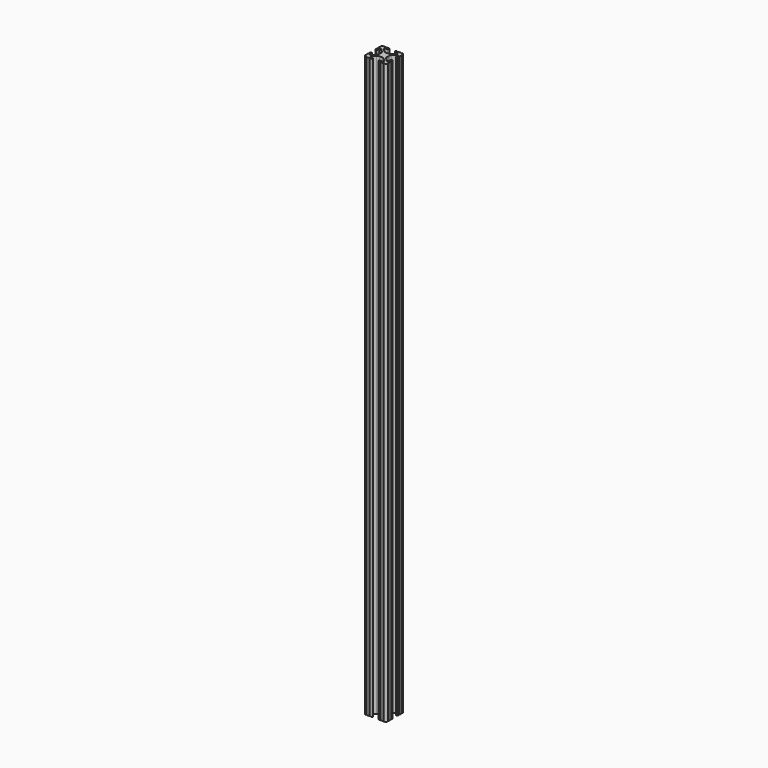
from build123d import *

# Parameters (mm, degrees)
F1_DEPTH = 656


with BuildPart() as f1:
    # F0 (on Top) → F1 (new body)
    with BuildSketch(Plane.XY):
        with BuildLine():
            ThreePointArc((-5.660299, 21.653931), (-5.026604, 22.60291), (-3.907231, 22.381251))
            Line((-3.907231, 22.381251), (-0.611105, 19.092658))
            ThreePointArc((-0.611105, 19.092658), (0.079023, 18.061725), (0.321401, 16.845027))
            Line((0.321401, 16.845027), (0.321401, 13.658656))
            ThreePointArc((0.321401, 13.658656), (0.079023, 12.441959), (-0.611105, 11.411025))
            Line((-0.611105, 11.411025), (-3.907231, 8.122433))
            ThreePointArc((-3.907231, 8.122433), (-5.026604, 7.900774), (-5.660299, 8.849753))
            Line((-5.660299, 8.849753), (-5.660299, 10.964372))
            ThreePointArc((-5.660299, 10.964372), (-5.967548, 11.706136), (-6.709312, 12.013385))
            Line((-6.709312, 12.013385), (-6.821087, 12.013385))
            ThreePointArc((-6.821087, 12.013385), (-7.562851, 11.706136), (-7.870099, 10.964372))
            Line((-7.870099, 10.964372), (-7.870099, 9.934758))
            ThreePointArc((-7.870099, 9.934758), (-7.362099, 9.426758), (-7.870099, 8.918758))
            Line((-7.870099, 8.918758), (-7.870099, 5.701442))
            ThreePointArc((-7.870099, 5.701442), (-7.362023, 5.193518), (-7.869946, 4.685442))
            ThreePointArc((-7.869946, 4.685442), (-7.252637, 3.169334), (-5.736542, 2.551994))
            ThreePointArc((-5.736542, 2.551994), (-5.228466, 3.059918), (-4.720542, 2.551842))
            Line((-4.720542, 2.551842), (-1.503226, 2.551842))
            ThreePointArc((-1.503226, 2.551842), (-0.995226, 3.059842), (-0.487226, 2.551842))
            Line((-0.487226, 2.551842), (0.542388, 2.551842))
            ThreePointArc((0.542388, 2.551842), (1.284152, 2.85909), (1.591401, 3.600854))
            Line((1.591401, 3.600854), (1.591401, 3.712629))
            ThreePointArc((1.591401, 3.712629), (1.284152, 4.454393), (0.542388, 4.761642))
            Line((0.542388, 4.761642), (-1.586508, 4.761642))
            ThreePointArc((-1.586508, 4.761642), (-2.58483, 5.429029), (-2.34975, 6.606649))
            Line((-2.34975, 6.606649), (0.87763, 9.828151))
            ThreePointArc((0.87763, 9.828151), (1.906964, 10.514913), (3.120647, 10.756042))
            Line((3.120647, 10.756042), (6.539154, 10.756042))
            ThreePointArc((6.539154, 10.756042), (7.752837, 10.514913), (8.782171, 9.828151))
            Line((8.782171, 9.828151), (12.009551, 6.606649))
            ThreePointArc((12.009551, 6.606649), (12.244631, 5.429029), (11.246309, 4.761642))
            Line((11.246309, 4.761642), (9.117413, 4.761642))
            ThreePointArc((9.117413, 4.761642), (8.375649, 4.454393), (8.068401, 3.712629))
            Line((8.068401, 3.712629), (8.068401, 3.600854))
            ThreePointArc((8.068401, 3.600854), (8.375649, 2.85909), (9.117413, 2.551842))
            Line((9.117413, 2.551842), (10.147027, 2.551842))
            ThreePointArc((10.147027, 2.551842), (10.655027, 3.059842), (11.163027, 2.551842))
            Line((11.163027, 2.551842), (14.380344, 2.551842))
            ThreePointArc((14.380344, 2.551842), (14.888267, 3.059918), (15.396344, 2.551994))
            ThreePointArc((15.396344, 2.551994), (16.912438, 3.169334), (17.529748, 4.685442))
            ThreePointArc((17.529748, 4.685442), (17.021824, 5.193518), (17.529901, 5.701442))
            Line((17.529901, 5.701442), (17.529901, 8.918758))
            ThreePointArc((17.529901, 8.918758), (17.021901, 9.426758), (17.529901, 9.934758))
            Line((17.529901, 9.934758), (17.529901, 10.964372))
            ThreePointArc((17.529901, 10.964372), (17.222652, 11.706136), (16.480888, 12.013385))
            Line((16.480888, 12.013385), (16.369113, 12.013385))
            ThreePointArc((16.369113, 12.013385), (15.627349, 11.706136), (15.320101, 10.964372))
            Line((15.320101, 10.964372), (15.320101, 8.849753))
            ThreePointArc((15.320101, 8.849753), (14.686406, 7.900774), (13.567032, 8.122433))
            Line((13.567032, 8.122433), (10.270906, 11.411025))
            ThreePointArc((10.270906, 11.411025), (9.580779, 12.441959), (9.338401, 13.658656))
            Line((9.338401, 13.658656), (9.338401, 16.845027))
            ThreePointArc((9.338401, 16.845027), (9.580779, 18.061725), (10.270906, 19.092658))
            Line((10.270906, 19.092658), (13.567032, 22.381251))
            ThreePointArc((13.567032, 22.381251), (14.686406, 22.60291), (15.320101, 21.653931))
            Line((15.320101, 21.653931), (15.320101, 19.539311))
            ThreePointArc((15.320101, 19.539311), (15.627349, 18.797547), (16.369113, 18.490299))
            Line((16.369113, 18.490299), (16.480888, 18.490299))
            ThreePointArc((16.480888, 18.490299), (17.222652, 18.797547), (17.529901, 19.539311))
            Line((17.529901, 19.539311), (17.529901, 20.568925))
            ThreePointArc((17.529901, 20.568925), (17.021901, 21.076925), (17.529901, 21.584925))
            Line((17.529901, 21.584925), (17.529901, 24.802242))
            ThreePointArc((17.529901, 24.802242), (17.021824, 25.310165), (17.529748, 25.818242))
            ThreePointArc((17.529748, 25.818242), (16.912438, 27.334349), (15.396344, 27.951689))
            ThreePointArc((15.396344, 27.951689), (14.888267, 27.443765), (14.380344, 27.951842))
            Line((14.380344, 27.951842), (11.163027, 27.951842))
            ThreePointArc((11.163027, 27.951842), (10.655027, 27.443842), (10.147027, 27.951842))
            Line((10.147027, 27.951842), (9.117413, 27.951842))
            ThreePointArc((9.117413, 27.951842), (8.375649, 27.644593), (8.068401, 26.902829))
            Line((8.068401, 26.902829), (8.068401, 26.791054))
            ThreePointArc((8.068401, 26.791054), (8.375649, 26.04929), (9.117413, 25.742042))
            Line((9.117413, 25.742042), (11.306689, 25.742042))
            ThreePointArc((11.306689, 25.742042), (12.262123, 25.103246), (12.036937, 23.976212))
            Line((12.036937, 23.976212), (8.728173, 20.675011))
            ThreePointArc((8.728173, 20.675011), (7.699021, 19.98863), (6.485679, 19.747642))
            Line((6.485679, 19.747642), (3.174122, 19.747642))
            ThreePointArc((3.174122, 19.747642), (1.96078, 19.98863), (0.931628, 20.675011))
            Line((0.931628, 20.675011), (-2.377135, 23.976212))
            ThreePointArc((-2.377135, 23.976212), (-2.602322, 25.103246), (-1.646888, 25.742042))
            Line((-1.646888, 25.742042), (0.542388, 25.742042))
            ThreePointArc((0.542388, 25.742042), (1.284152, 26.04929), (1.591401, 26.791054))
            Line((1.591401, 26.791054), (1.591401, 26.902829))
            ThreePointArc((1.591401, 26.902829), (1.284152, 27.644593), (0.542388, 27.951842))
            Line((0.542388, 27.951842), (-0.487226, 27.951842))
            ThreePointArc((-0.487226, 27.951842), (-0.995226, 27.443842), (-1.503226, 27.951842))
            Line((-1.503226, 27.951842), (-4.720542, 27.951842))
            ThreePointArc((-4.720542, 27.951842), (-5.228466, 27.443765), (-5.736542, 27.951689))
            ThreePointArc((-5.736542, 27.951689), (-7.252637, 27.334349), (-7.869946, 25.818242))
            ThreePointArc((-7.869946, 25.818242), (-7.362023, 25.310165), (-7.870099, 24.802242))
            Line((-7.870099, 24.802242), (-7.870099, 21.584925))
            ThreePointArc((-7.870099, 21.584925), (-7.362099, 21.076925), (-7.870099, 20.568925))
            Line((-7.870099, 20.568925), (-7.870099, 19.539311))
            ThreePointArc((-7.870099, 19.539311), (-7.562851, 18.797547), (-6.821087, 18.490299))
            Line((-6.821087, 18.490299), (-6.709312, 18.490299))
            ThreePointArc((-6.709312, 18.490299), (-5.967548, 18.797547), (-5.660299, 19.539311))
            Line((-5.660299, 19.539311), (-5.660299, 21.653931))
        make_face()
    extrude(amount=F1_DEPTH)


solid = f1.part
